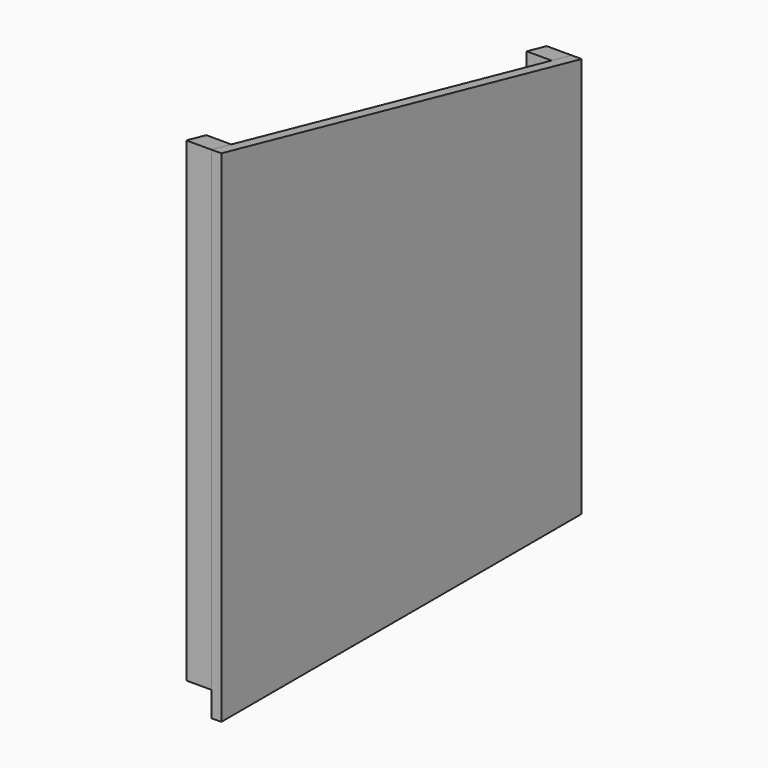
from build123d import *

# Parameters (mm, degrees)
F1_DEPTH  = 20
F2_W      = 50
F2_H      = 50
F3_DEPTH  = 1000
F5_DEPTH  = 153
F6_W      = 50
F6_H      = 50
F7_DEPTH  = 112
F8_W      = 50
F8_H      = 50
F9_DEPTH  = 850
F11_DEPTH = 169
F12_W     = 50
F12_H     = 50
F13_DEPTH = 94


with BuildPart() as f1:
    # F0 (on Right) → F1 (new body)
    with BuildSketch(Plane.YZ):
        Polygon((0, 1000), (0, 0), (900, 0), (900, 800), align=None)
    extrude(amount=F1_DEPTH)


with BuildPart() as f3:
    # F2 (on Top) → F3 (new body)
    with BuildSketch(Plane.XY):
        with Locations((-25, 25)):
            Rectangle(F2_W, F2_H)
    extrude(amount=F3_DEPTH)

    # F4 (on face) → F5 (cut)
    with BuildSketch(Plane.YZ.offset(20)):
        Polygon((0, 1058.948), (0, 1000), (140.4614215388, 968.7863507692), (140.4614215388, 1058.948), align=None)
    extrude(amount=-F5_DEPTH, mode=Mode.SUBTRACT)

    # F6 (on face) → F7 (cut)
    with BuildSketch(Plane(origin=(-50, 0, 0), x_dir=(0, -1, 0), z_dir=(-1, 0, 0))):
        with Locations((-25, 25)):
            Rectangle(F6_W, F6_H)
    extrude(amount=-F7_DEPTH, mode=Mode.SUBTRACT)


with BuildPart() as f9:
    # F8 (on face) → F9 (new body)
    with BuildSketch(Plane(origin=(0, 0, 0), x_dir=(1, 0, 0), z_dir=(0, 0, -1))):
        with Locations((-25, -875)):
            Rectangle(F8_W, F8_H)
    extrude(amount=-F9_DEPTH)

    # F10 (on face) → F11 (cut)
    with BuildSketch(Plane.YZ.offset(20)):
        Polygon((787.202956396, 899.949669838), (787.202956396, 825.0660096898), (900, 800), (900, 899.949669838), align=None)
    extrude(amount=-F11_DEPTH, mode=Mode.SUBTRACT)

    # F12 (on face) → F13 (cut)
    with BuildSketch(Plane(origin=(-50, 0, 0), x_dir=(0, -1, 0), z_dir=(-1, 0, 0))):
        with Locations((-875, 25)):
            Rectangle(F12_W, F12_H)
    extrude(amount=-F13_DEPTH, mode=Mode.SUBTRACT)


solid = Compound([f1.part, f3.part, f9.part])
